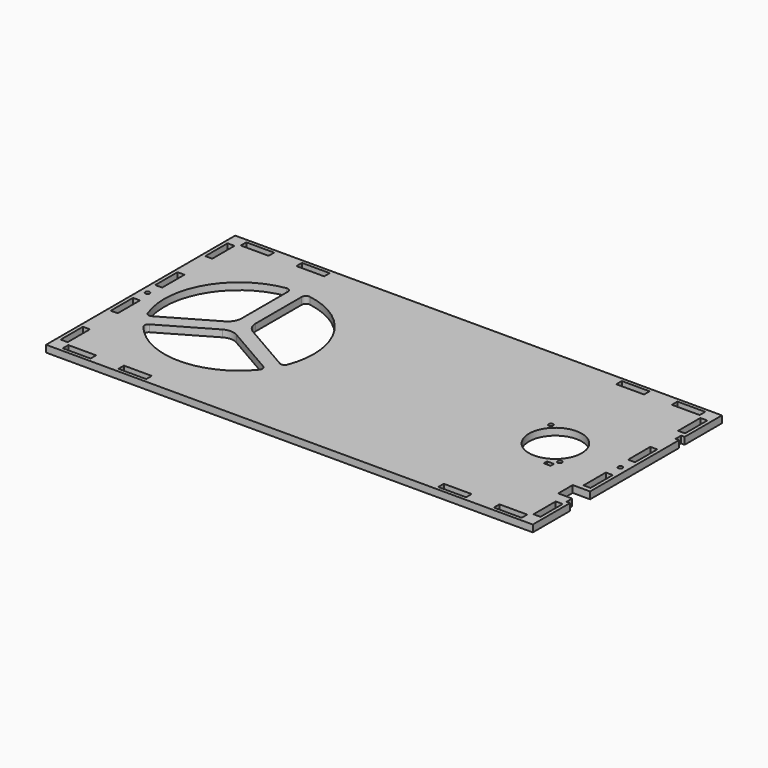
from build123d import *

# Parameters (mm, degrees)
F1_W     = 20
F1_H     = 5
F1_W_2   = 5
F1_H_2   = 20
F1_H_3   = 3
F1_R     = 1.6
F1_R_2   = 19
F2_DEPTH = 5


with BuildPart() as f2:
    # F1 (on Top) → F2 (new body)
    with BuildSketch(Plane.XY):
        Polygon((0, 170), (0, 0), (350, 0), (350, 33.5), (347.5, 33.5), (347.5, 38.5), (337.5, 38.5), (337.5, 51.5), (350, 51.5), (350, 131.5), (347.5, 131.5), (347.5, 136.5), (350, 136.5), (350, 170), align=None)
        with Locations((20, 5)):
            Rectangle(F1_W, F1_H, mode=Mode.SUBTRACT)
        with Locations((5, 20)):
            Rectangle(F1_W_2, F1_H_2, mode=Mode.SUBTRACT)
        with Locations((60, 5)):
            Rectangle(F1_W, F1_H, mode=Mode.SUBTRACT)
        with BuildLine():
            ThreePointArc((112.4804290917, 51.1232559442), (70.75, 31.25), (29.0195709083, 51.1232559442))
            ThreePointArc((29.0195709083, 51.1232559442), (28.3986145368, 53.5589638456), (29.8487111366, 55.6121271726))
            Line((29.8487111366, 55.6121271726), (65.75, 76.3397459622))
            ThreePointArc((65.75, 76.3397459622), (70.75, 77.6794919243), (75.75, 76.3397459622))
            Line((75.75, 76.3397459622), (111.6512888634, 55.6121271726))
            ThreePointArc((111.6512888634, 55.6121271726), (113.1013854632, 53.5589638456), (112.4804290917, 51.1232559442))
        make_face(mode=Mode.SUBTRACT)
        with Locations((5, 65)):
            Rectangle(F1_W_2, F1_H_2, mode=Mode.SUBTRACT)
        with Locations((290, 5)):
            Rectangle(F1_W, F1_H, mode=Mode.SUBTRACT)
        with Locations((330, 5)):
            Rectangle(F1_W, F1_H, mode=Mode.SUBTRACT)
        with Locations((345, 20)):
            Rectangle(F1_W_2, F1_H_2, mode=Mode.SUBTRACT)
        with Locations((310.775873661, 63.5)):
            Rectangle(F1_W_2, F1_H_3, mode=Mode.SUBTRACT)
        with Locations((314.25, 69)):
            Circle(F1_R, mode=Mode.SUBTRACT)
        with Locations((345, 65)):
            Rectangle(F1_W_2, F1_H_2, mode=Mode.SUBTRACT)
        with Locations((5, 85)):
            Circle(F1_R, mode=Mode.SUBTRACT)
        with Locations((5, 105)):
            Rectangle(F1_W_2, F1_H_2, mode=Mode.SUBTRACT)
        with BuildLine():
            Line((65.75, 135.1154916169), (65.75, 93.6602540378))
            ThreePointArc((65.75, 93.6602540378), (64.4102540378, 88.6602540378), (60.75, 85))
            Line((60.75, 85), (24.8487111366, 64.2723812105))
            ThreePointArc((24.8487111366, 64.2723812105), (22.3455712374, 64.0431423806), (20.5466645043, 65.7987603236))
            ThreePointArc((20.5466645043, 65.7987603236), (24.2011345466, 111.875), (62.2770935961, 138.0779837321))
            ThreePointArc((62.2770935961, 138.0779837321), (64.6969567006, 137.3978937738), (65.75, 135.1154916169))
        make_face(mode=Mode.SUBTRACT)
        with BuildLine():
            ThreePointArc((80.75, 85), (77.0897459622, 88.6602540378), (75.75, 93.6602540378))
            Line((75.75, 93.6602540378), (75.75, 135.1154916169))
            ThreePointArc((75.75, 135.1154916169), (76.8030432994, 137.3978937738), (79.2229064039, 138.0779837321))
            ThreePointArc((79.2229064039, 138.0779837321), (117.2988654534, 111.875), (120.9533354957, 65.7987603236))
            ThreePointArc((120.9533354957, 65.7987603236), (119.1544287626, 64.0431423806), (116.6512888634, 64.2723812105))
            Line((116.6512888634, 64.2723812105), (80.75, 85))
        make_face(mode=Mode.SUBTRACT)
        with Locations((5, 150)):
            Rectangle(F1_W_2, F1_H_2, mode=Mode.SUBTRACT)
        with Locations((20, 165)):
            Rectangle(F1_W, F1_H, mode=Mode.SUBTRACT)
        with Locations((60, 165)):
            Rectangle(F1_W, F1_H, mode=Mode.SUBTRACT)
        with Locations((298.25, 85)):
            Circle(F1_R_2, mode=Mode.SUBTRACT)
        with Locations((282.25, 101)):
            Circle(F1_R, mode=Mode.SUBTRACT)
        with Locations((345, 85)):
            Circle(F1_R, mode=Mode.SUBTRACT)
        with Locations((345, 105)):
            Rectangle(F1_W_2, F1_H_2, mode=Mode.SUBTRACT)
        with Locations((290, 165)):
            Rectangle(F1_W, F1_H, mode=Mode.SUBTRACT)
        with Locations((345, 150)):
            Rectangle(F1_W_2, F1_H_2, mode=Mode.SUBTRACT)
        with Locations((330, 165)):
            Rectangle(F1_W, F1_H, mode=Mode.SUBTRACT)
    extrude(amount=F2_DEPTH)


solid = f2.part
